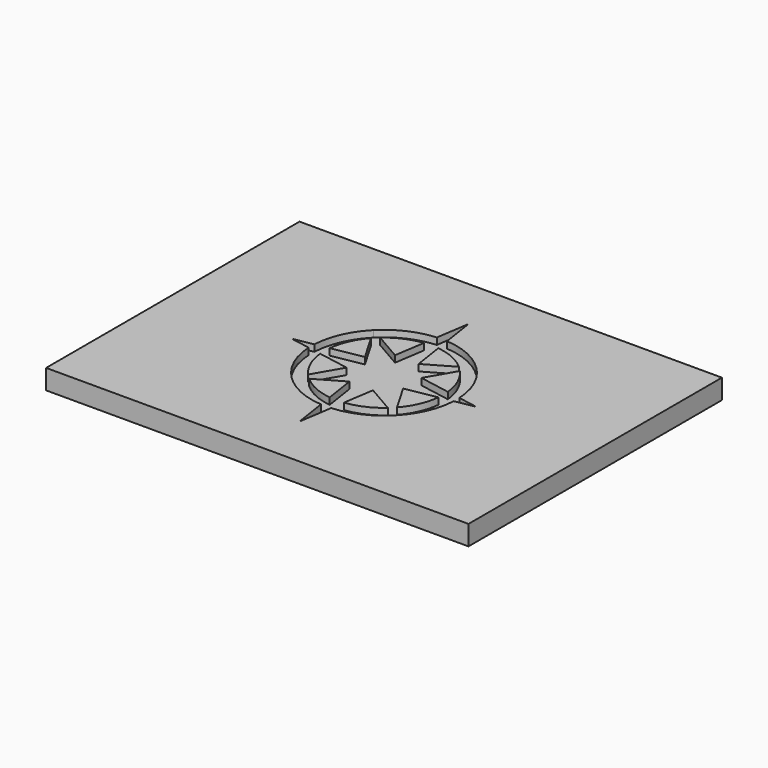
from build123d import *

# Parameters (mm, degrees)
F0_W     = 203.2
F0_H     = 152.4
F1_DEPTH = 9.525
F4_DEPTH = 3.175


with BuildPart() as f1:
    # F0 (on Top) → F1 (new body)
    with BuildSketch(Plane.XY):
        Rectangle(F0_W, F0_H)
    extrude(amount=-F1_DEPTH)

    # F3 (on Top) → F4 (cut)
    with BuildSketch(Plane.XY):
        Polygon((2.4394910489, 34.8396973067), (0, 50.8), (0, 0), (6.7351920908, 6.7351920908), (5.6690130455, 13.7106389963), (3.4285870841, 28.3685638623), align=None)
        Polygon((0, 0), (0, 50.8), (-2.4394910489, 34.8396973067), (-3.4285870841, 28.3685638623), (-5.6690130455, 13.7106389963), (-6.7351920908, 6.7351920908), align=None)
        Polygon((6.7351920908, -6.7351920908), (0, 0), (0, -50.8), (2.4394910489, -34.8396973067), (3.4285870841, -28.3685638623), (5.6690130455, -13.7106389963), align=None)
        Polygon((-6.7351920908, -6.7351920908), (0, 0), (-44.45, 0), (-34.8831876749, -1.7084620678), (-28.4314515584, -2.8606270786), (-13.6166851208, -5.5062801594), align=None)
        Polygon((6.7351920908, 6.7351920908), (0, 0), (44.45, 0), (34.8831876749, 1.7084620678), (28.4314515584, 2.8606270786), (13.6166851208, 5.5062801594), align=None)
        Polygon((0, -50.8), (0, 0), (-6.7351920908, -6.7351920908), (-5.6690130455, -13.7106389963), (-3.4285870841, -28.3685638623), (-2.4394910489, -34.8396973067), align=None)
        Polygon((-44.45, 0), (0, 0), (-6.7351920908, 6.7351920908), (-13.6166851208, 5.5062801594), (-28.4314515584, 2.8606270786), (-34.8831876749, 1.7084620678), align=None)
        Polygon((44.45, 0), (0, 0), (6.7351920908, -6.7351920908), (13.6166851208, -5.5062801594), (28.4314515584, -2.8606270786), (34.8831876749, -1.7084620678), align=None)
        with BuildLine():
            Line((-3.4285870841, 28.3685638623), (-2.4394910489, 34.8396973067))
            ThreePointArc((-2.4394910489, 34.8396973067), (-14.4846420551, 31.7797226158), (-24.6957043329, 24.6957043329))
            Line((-24.6957043329, 24.6957043329), (-18.9562508642, 21.3820293278))
            ThreePointArc((-18.9562508642, 21.3820293278), (-11.7248948265, 26.0587310955), (-3.4285870841, 28.3685638623))
        make_face()
        with BuildLine():
            ThreePointArc((24.6957043329, 24.6957043329), (14.4846420551, 31.7797226158), (2.4394910489, 34.8396973067))
            Line((2.4394910489, 34.8396973067), (3.4285870841, 28.3685638623))
            ThreePointArc((3.4285870841, 28.3685638623), (11.7248948265, 26.0587310955), (18.9562508642, 21.3820293278))
            Line((18.9562508642, 21.3820293278), (24.6957043329, 24.6957043329))
        make_face()
        Polygon((-24.6957043329, -24.6957043329), (-6.7351920908, -6.7351920908), (-13.6166851208, -5.5062801594), (-21.3820293278, -18.9562508642), align=None)
        Polygon((-5.6690130455, -13.7106389963), (-6.7351920908, -6.7351920908), (-24.6957043329, -24.6957043329), (-18.9562508642, -21.3820293278), align=None)
        Polygon((24.6957043329, 24.6957043329), (6.7351920908, 6.7351920908), (13.6166851208, 5.5062801594), (21.3820293278, 18.9562508642), align=None)
        Polygon((5.6690130455, 13.7106389963), (6.7351920908, 6.7351920908), (24.6957043329, 24.6957043329), (18.9562508642, 21.3820293278), align=None)
        Polygon((-24.6957043329, 24.6957043329), (-6.7351920908, 6.7351920908), (-5.6690130455, 13.7106389963), (-18.9562508642, 21.3820293278), align=None)
        Polygon((-13.6166851208, 5.5062801594), (-6.7351920908, 6.7351920908), (-24.6957043329, 24.6957043329), (-21.3820293278, 18.9562508642), align=None)
        Polygon((24.6957043329, -24.6957043329), (6.7351920908, -6.7351920908), (5.6690130455, -13.7106389963), (18.9562508642, -21.3820293278), align=None)
        Polygon((13.6166851208, -5.5062801594), (6.7351920908, -6.7351920908), (24.6957043329, -24.6957043329), (21.3820293278, -18.9562508642), align=None)
        with BuildLine():
            Line((-21.3820293278, 18.9562508642), (-24.6957043329, 24.6957043329))
            ThreePointArc((-24.6957043329, 24.6957043329), (-31.92983589, 14.15066094), (-34.8831876749, 1.7084620678))
            Line((-34.8831876749, 1.7084620678), (-28.4314515584, 2.8606270786))
            ThreePointArc((-28.4314515584, 2.8606270786), (-26.1746632406, 11.4637528427), (-21.3820293278, 18.9562508642))
        make_face()
        with BuildLine():
            ThreePointArc((34.8831876749, 1.7084620678), (31.92983589, 14.15066094), (24.6957043329, 24.6957043329))
            Line((24.6957043329, 24.6957043329), (21.3820293278, 18.9562508642))
            ThreePointArc((21.3820293278, 18.9562508642), (26.1746632406, 11.4637528427), (28.4314515584, 2.8606270786))
            Line((28.4314515584, 2.8606270786), (34.8831876749, 1.7084620678))
        make_face()
        with BuildLine():
            ThreePointArc((-24.6957043329, -24.6957043329), (-14.4846420551, -31.7797226158), (-2.4394910489, -34.8396973067))
            Line((-2.4394910489, -34.8396973067), (-3.4285870841, -28.3685638623))
            ThreePointArc((-3.4285870841, -28.3685638623), (-11.7248948265, -26.0587310955), (-18.9562508642, -21.3820293278))
            Line((-18.9562508642, -21.3820293278), (-24.6957043329, -24.6957043329))
        make_face()
        with BuildLine():
            Line((3.4285870841, -28.3685638623), (2.4394910489, -34.8396973067))
            ThreePointArc((2.4394910489, -34.8396973067), (14.4846420551, -31.7797226158), (24.6957043329, -24.6957043329))
            Line((24.6957043329, -24.6957043329), (18.9562508642, -21.3820293278))
            ThreePointArc((18.9562508642, -21.3820293278), (11.7248948265, -26.0587310955), (3.4285870841, -28.3685638623))
        make_face()
        with BuildLine():
            Line((-28.4314515584, -2.8606270786), (-34.8831876749, -1.7084620678))
            ThreePointArc((-34.8831876749, -1.7084620678), (-31.92983589, -14.15066094), (-24.6957043329, -24.6957043329))
            Line((-24.6957043329, -24.6957043329), (-21.3820293278, -18.9562508642))
            ThreePointArc((-21.3820293278, -18.9562508642), (-26.1746632406, -11.4637528427), (-28.4314515584, -2.8606270786))
        make_face()
        with BuildLine():
            ThreePointArc((24.6957043329, -24.6957043329), (31.92983589, -14.15066094), (34.8831876749, -1.7084620678))
            Line((34.8831876749, -1.7084620678), (28.4314515584, -2.8606270786))
            ThreePointArc((28.4314515584, -2.8606270786), (26.1746632406, -11.4637528427), (21.3820293278, -18.9562508642))
            Line((21.3820293278, -18.9562508642), (24.6957043329, -24.6957043329))
        make_face()
    extrude(amount=-F4_DEPTH, mode=Mode.SUBTRACT)


solid = f1.part
